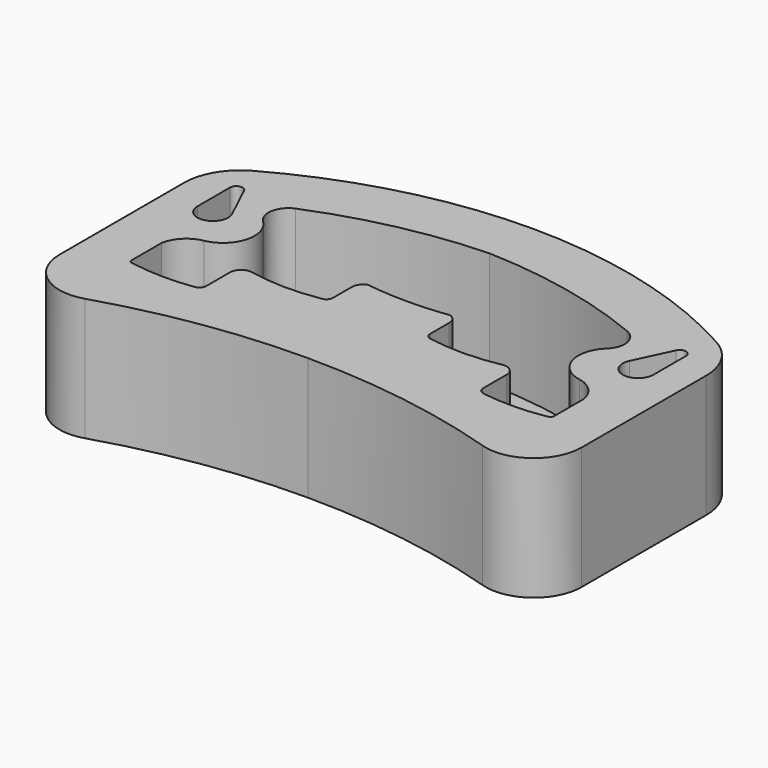
from build123d import *

# Parameters (mm, degrees)
PAD_DEPTH    = 32
POCKET_DEPTH = 30


with BuildPart() as part:
    # Sketch → Pad (new body)
    with BuildSketch(Plane.XY):
        with BuildLine():
            Line((68, 11.919847), (68, 52.484752))
            ThreePointArc((68, 52.484752), (65.982797, 59.902078), (60.486868, 65.276144))
            ThreePointArc((60.486868, 65.276144), (31.248603, 77.004779), (0, 81))
            Line((0, 81), (0, 7.903371))
            ThreePointArc((51.786627, 0), (26.193119, 5.916155), (0, 7.903371))
            ThreePointArc((51.786627, 0), (62.908928, 1.858085), (68, 11.919847))
        make_face()
        with BuildLine():
            Line((56.278101, 57.375088), (51.762611, 47.798227))
            ThreePointArc((51.762611, 47.798227), (54.509093, 42.183801), (59.387684, 46.090756))
            Line((59.387684, 56.678764), (59.387684, 46.090756))
            ThreePointArc((59.387684, 56.678764), (58.111713, 58.27206), (56.278101, 57.375088))
        make_face(mode=Mode.SUBTRACT)
    pad = extrude(amount=PAD_DEPTH)

    # Sketch001 → Pocket (cut)
    with BuildSketch(Plane.XY.offset(32)):
        with BuildLine():
            ThreePointArc((43.162552, 57.77313), (21.99443, 64.319264), (0, 67))
            Line((0, 67), (0, 40))
            ThreePointArc((0, 40), (5.362658, 40.184337), (10.7, 40.736478))
            ThreePointArc((12.666923, 37.969749), (12.125079, 39.667069), (10.7, 40.736478))
            Line((12.666923, 31.822003), (12.666923, 37.969749))
            ThreePointArc((12.666923, 31.822003), (13.078436, 30.695708), (14.119116, 30.1))
            ThreePointArc((14.119116, 30.1), (23.572379, 29.366387), (33, 30.377498))
            ThreePointArc((36.047549, 27.450542), (35.147342, 29.563278), (33, 30.377498))
            Line((36.047549, 19.83336), (36.047549, 27.450542))
            ThreePointArc((36.047549, 19.83336), (36.499771, 18.620595), (37.635625, 18))
            ThreePointArc((37.635625, 18), (45.958329, 17.472818), (54.258916, 18.276295))
            ThreePointArc((54.258916, 18.276295), (54.788961, 18.583293), (54.998194, 19.158982))
            Line((54.998194, 28.871338), (54.998194, 19.158982))
            ThreePointArc((54.998194, 28.871338), (52.927452, 32.928287), (48.905587, 35.066376))
            ThreePointArc((44.75866, 49.161724), (42.505536, 40.841145), (48.905587, 35.066376))
            ThreePointArc((44.75866, 49.161724), (46.308059, 53.902523), (43.162552, 57.77313))
        make_face()
    pocket = extrude(amount=-POCKET_DEPTH, mode=Mode.SUBTRACT)

    # Mirrored: Pad, Pocket across Sketch001 V_Axis
    add(pad.mirror(Plane(origin=(0, 0, 32), x_dir=(0, 0, 1), z_dir=(1, 0, 0))))
    add(pocket.mirror(Plane(origin=(0, 0, 32), x_dir=(0, 0, 1), z_dir=(1, 0, 0))), mode=Mode.SUBTRACT)


solid = part.part
